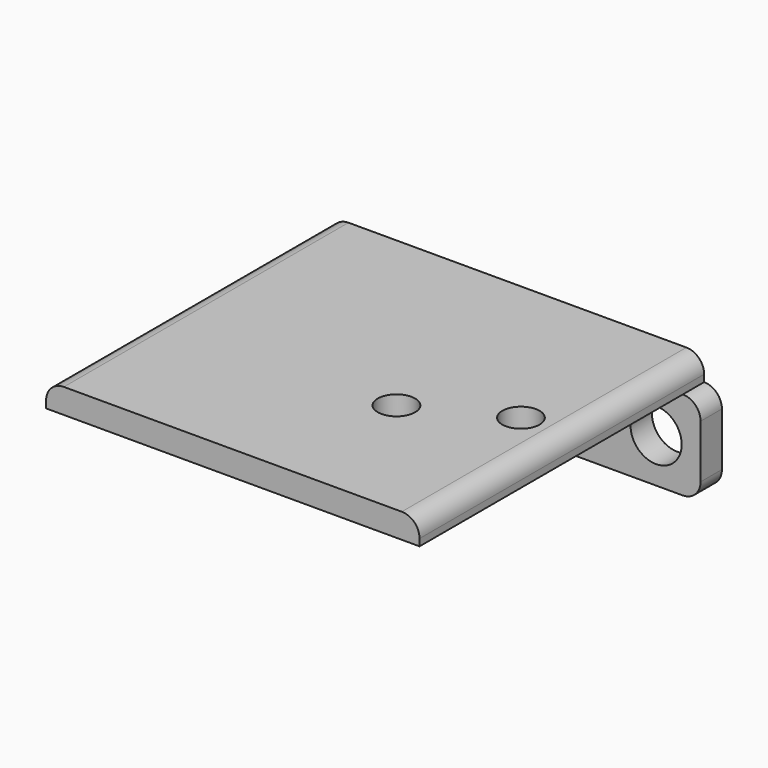
from build123d import *

# Parameters (mm, degrees)
F1_DEPTH      = 3
F2_R          = 2.875
F3_DEPTH      = 25
F4_W          = 10
F4_H          = 10
F5_DEPTH      = 37
F5_DEPTH_BACK = 3
F7_DEPTH      = 25
F8_R          = 2.1
F9_DEPTH      = 25


with BuildPart() as f1:
    # F0 (on Front) → F1 (new body)
    with BuildSketch(Plane.XZ):
        with BuildLine():
            Line((21, 0), (-21, 0))
            ThreePointArc((-21, 0), (-22.414214, -0.585786), (-23, -2))
            Line((-23, -2), (-23, -8))
            ThreePointArc((-23, -8), (-22.414214, -9.414214), (-21, -10))
            Line((-21, -10), (21, -10))
            ThreePointArc((21, -10), (22.414214, -9.414214), (23, -8))
            Line((23, -8), (23, -2))
            ThreePointArc((23, -2), (22.414214, -0.585786), (21, 0))
        make_face()
    extrude(amount=F1_DEPTH)

    # F2 (on face) → F3 (cut)
    with BuildSketch(Plane.XZ.offset(3)):
        with Locations((-18, -5)):
            Circle(F2_R)
        with Locations((18, -5)):
            Circle(F2_R)
    extrude(amount=-F3_DEPTH, mode=Mode.SUBTRACT)

    # F4 (on face) → F5 (join, two sides)
    with BuildSketch(Plane.XZ.offset(3)) as f5_sk:
        with BuildLine():
            Line((-21, 0.779364), (-21, 0))
            Line((-21, 0), (-9, 0))
            Line((-9, 0), (1, 0))
            Line((1, 0), (21, 0))
            Line((21, 0), (21, 0.779364))
            ThreePointArc((21, 0.779364), (20.414214, 2.193577), (19, 2.779364))
            Line((19, 2.779364), (-19, 2.779364))
            ThreePointArc((-19, 2.779364), (-20.414214, 2.193577), (-21, 0.779364))
        make_face()
        with Locations((-4, -5)):
            Rectangle(F4_W, F4_H)
    extrude(amount=F5_DEPTH)
    extrude(f5_sk.sketch, amount=-F5_DEPTH_BACK)

    # F6 (on face) → F7 (cut)
    with BuildSketch(Plane.YZ.offset(1)):
        Polygon((-3, -10), (-40, 0), (-40, -10), align=None)
    extrude(amount=-F7_DEPTH, mode=Mode.SUBTRACT)

    # F8 (on face) → F9 (cut)
    with BuildSketch(Plane.XY.offset(2.779364)):
        with Locations((16, -19.5)):
            Circle(F8_R)
        with Locations((6, -24.5)):
            Circle(F8_R)
    extrude(amount=-F9_DEPTH, mode=Mode.SUBTRACT)


solid = f1.part
